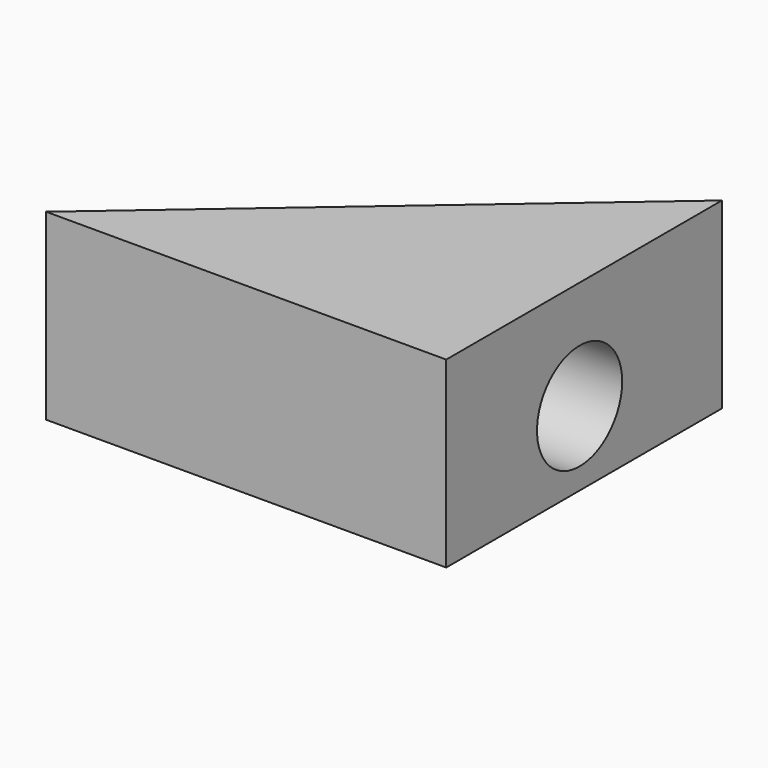
from build123d import *

# Parameters (mm, degrees)
F1_DEPTH = 27.94
F2_R     = 8.120671
F3_DEPTH = 25.4


with BuildPart() as f1:
    # F0 (on Top) → F1 (new body)
    with BuildSketch(Plane.XY):
        Polygon((14.889965, 18.565336), (-46.177741, -34.020744), (14.889965, -34.020744), align=None)
    extrude(amount=-F1_DEPTH)

    # F2 (on face) → F3 (cut)
    with BuildSketch(Plane.YZ.offset(14.889965)):
        with Locations((-8.584474, -16.574016)):
            Circle(F2_R)
    extrude(amount=-F3_DEPTH, mode=Mode.SUBTRACT)


solid = f1.part
